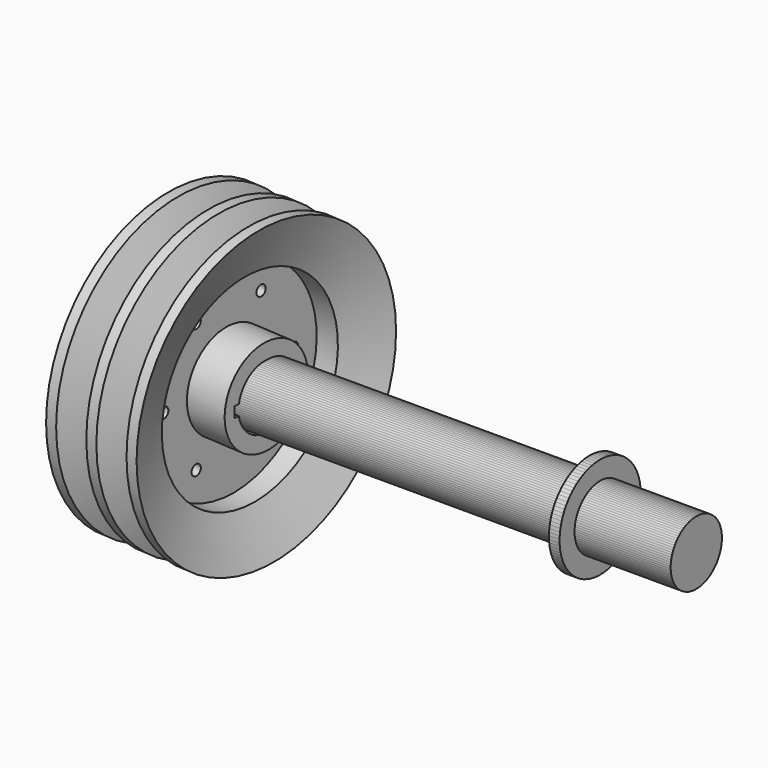
from build123d import *

# Parameters (mm, degrees)
SKETCH003_R             = 30
PAD_DEPTH               = 45
SKETCH004_R             = 47.5
PAD001_DEPTH            = 10
SKETCH006_R             = 30
PAD002_DEPTH            = 400
SKETCH001_R             = 5
POCKET_DEPTH            = 864.65862
POLARPATTERN_COUNT      = 6
SKETCH008_W             = 10
SKETCH008_H             = 5
POCKET001_DEPTH         = 90
BODY003_PLACEMENT_ANGLE = 4


with BuildPart() as body001:
    # Sketch003 → Pad (new body, symmetric)
    with BuildSketch(Plane.YZ):
        Circle(SKETCH003_R)
    extrude(amount=PAD_DEPTH, both=True)

    # Sketch004 (on Face2 of Pad) → Pad001 (join)
    with BuildSketch(Plane(origin=(-45, 0, 0), x_dir=(0, 1, 0), z_dir=(-1, 0, 0))):
        Circle(SKETCH004_R)
    extrude(amount=PAD001_DEPTH)

    # Sketch006 (on Face3 of Pad001) → Pad002 (join)
    with BuildSketch(Plane(origin=(-55, 0, 0), x_dir=(0, 1, 0), z_dir=(-1, 0, 0))):
        Circle(SKETCH006_R)
    extrude(amount=PAD002_DEPTH)


with BuildPart() as body002:
    # Sketch007 → Revolution001 (revolve)
    with BuildSketch(Plane.XZ):
        Polygon((45, 0), (45, 30), (-45, 30), (-45, 47.5), (-55, 47.5), (-55, 30), (-455, 30), (-455, 0), align=None)
    revolve(axis=Axis((0, 0, 0), (1, 0, 0)))


with BuildPart() as body003:
    # Sketch → Revolution (revolve)
    with BuildSketch(Plane.XZ):
        Polygon((-7.5, 45), (-45, 45), (-45, 30), (45, 30), (45, 45), (7.5, 45), (7.5, 95), (28.621339, 95), (45, 140), (35, 140), (24.080893, 110), (15.919107, 110), (5, 140), (-5, 140), (-15.919107, 110), (-24.080893, 110), (-35, 140), (-45, 140), (-28.621339, 95), (-7.5, 95), align=None)
    revolve(axis=Axis((0, 0, 0), (1, 0, 0)))

    # Sketch001 (on Face6 of Revolution) → Pocket (cut, through all)
    with BuildSketch(Plane(origin=(7.5, 0, 0), x_dir=(0, 0, 1), z_dir=(1, 0, 0))):
        with Locations((0, 70)):
            Circle(SKETCH001_R)
    pocket = extrude(amount=-POCKET_DEPTH, mode=Mode.SUBTRACT)

    # PolarPattern: Pocket ×6 about axis
    polarpattern_axis = Axis((7.5, 0, 0), (1, 0, 0))
    for i in range(1, POLARPATTERN_COUNT):
        add(pocket.rotate(polarpattern_axis, i * 360 / POLARPATTERN_COUNT), mode=Mode.SUBTRACT)

    # Sketch008 (on Face14 of PolarPattern) → Pocket001 (cut)
    with BuildSketch(Plane(origin=(45, 0, 0), x_dir=(0, 0, 1), z_dir=(1, 0, 0))):
        with Locations((0, 31.788614)):
            Rectangle(SKETCH008_W, SKETCH008_H)
    extrude(amount=-POCKET001_DEPTH, mode=Mode.SUBTRACT)


with BuildPart() as body003_1:
    # Body003 placement: moved
    add(body003.part.moved(Location((-400, 0, 0))).rotate(Axis((-400, 0, 0), (0, 0, -1)), BODY003_PLACEMENT_ANGLE))


solid = Compound([body001.part, body002.part, body003_1.part])
